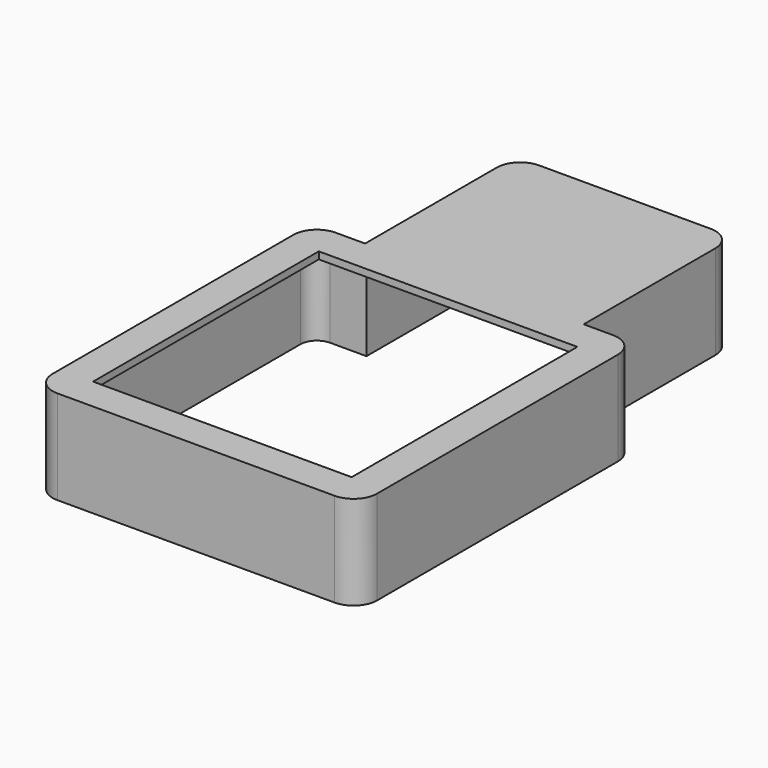
from build123d import *

# Parameters (mm, degrees)
F1_DEPTH = 40
F2_T     = -3
F3_W     = 110
F3_H     = 120
F4_DEPTH = 25


with BuildPart() as f1:
    # F0 (on Top) → F1 (new body)
    with BuildSketch(Plane.XY):
        with BuildLine():
            ThreePointArc((-69, -64), (-66.0710678119, -71.0710678119), (-59, -74))
            Line((-59, -74), (59, -74))
            ThreePointArc((59, -74), (66.0710678119, -71.0710678119), (69, -64))
            Line((69, -64), (69, 64))
            ThreePointArc((69, 64), (66.0710678119, 71.0710678119), (59, 74))
            Line((59, 74), (46.5, 74))
            Line((46.5, 74), (46.5, 144))
            ThreePointArc((46.5, 144), (43.5710678119, 151.0710678119), (36.5, 154))
            Line((36.5, 154), (-36.5, 154))
            ThreePointArc((-36.5, 154), (-43.5710678119, 151.0710678119), (-46.5, 144))
            Line((-46.5, 144), (-46.5, 74))
            Line((-46.5, 74), (-59, 74))
            ThreePointArc((-59, 74), (-66.0710678119, 71.0710678119), (-69, 64))
            Line((-69, 64), (-69, -64))
        make_face()
    extrude(amount=F1_DEPTH)

    # F2
    f2_openings = [f1.faces().sort_by_distance(p)[0] for p in [
        (0, 30.345732, 0),
    ]]
    offset(amount=F2_T, openings=f2_openings, kind=Kind.INTERSECTION)

    # F3 (on face) → F4 (cut)
    with BuildSketch(Plane(origin=(0, 0, 37), x_dir=(1, 0, 0), z_dir=(0, 0, -1))):
        Rectangle(F3_W, F3_H)
    extrude(amount=-F4_DEPTH, mode=Mode.SUBTRACT)


solid = f1.part
